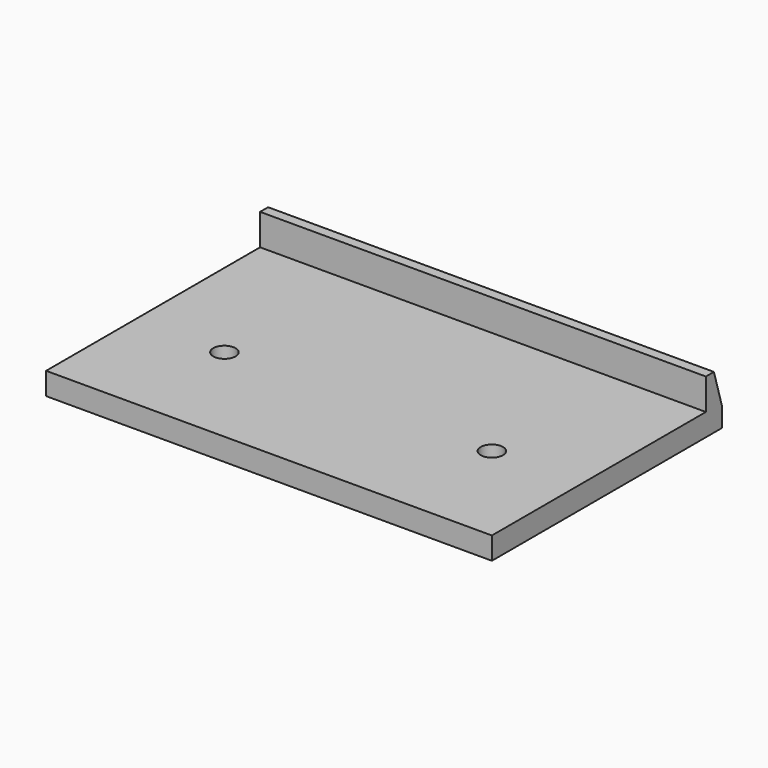
from build123d import *

# Parameters (mm, degrees)
F1_DEPTH = 50
F3_DEPTH = 100
F4_R     = 2.5
F5_DEPTH = 5


with BuildPart() as f1:
    # F0 (on Right) → F1 (new body, symmetric)
    with BuildSketch(Plane.YZ):
        Polygon((-64.5, 0), (0, 0), (0, 12), (-4.5, 12), (-4.5, 5), (-64.5, 5), align=None)
    extrude(amount=F1_DEPTH, both=True)

    # F2 (on face) → F3 (cut, through all)
    with BuildSketch(Plane.YZ.offset(50)):
        Polygon((0, 12), (-2.25, 12), (0, 4.411913), align=None)
    extrude(amount=-F3_DEPTH, mode=Mode.SUBTRACT)

    # F4 (on face) → F5 (cut, through all)
    with BuildSketch(Plane.XY.offset(5)):
        with Locations((-30, -39.5)):
            Circle(F4_R)
        with Locations((30, -39.5)):
            Circle(F4_R)
    extrude(amount=-F5_DEPTH, mode=Mode.SUBTRACT)


solid = f1.part
